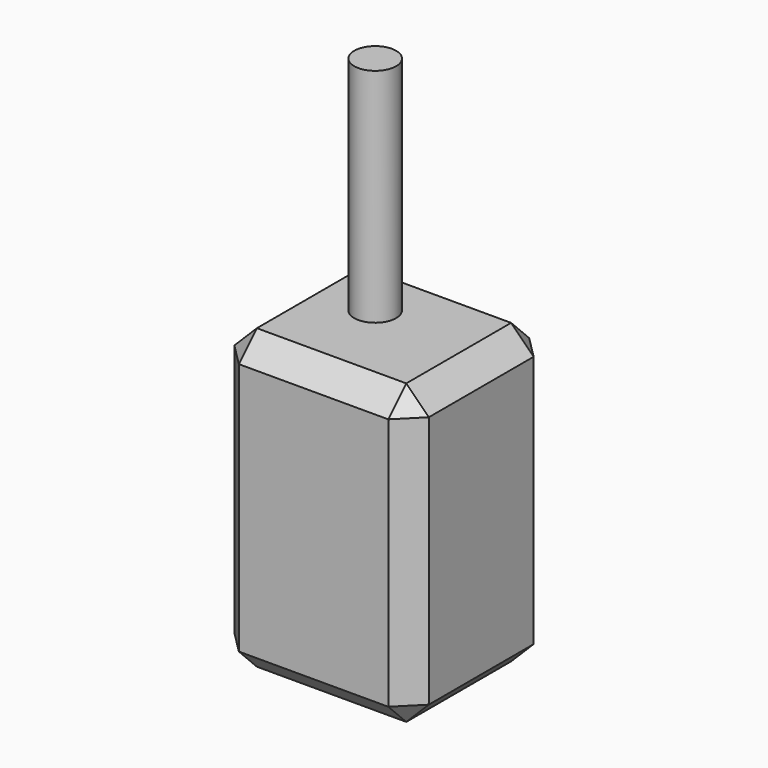
from build123d import *

# Parameters (mm, degrees)
F0_W     = 43.873566
F0_H     = 39.735638
F1_DEPTH = 67.251692
F2_SIZE  = 5.08
F3_R     = 4.729386
F4_DEPTH = 50.0404


with BuildPart() as f1:
    # F0 (on Top) → F1 (new body)
    with BuildSketch(Plane.XY):
        with Locations((4.820467, -19.867819)):
            Rectangle(F0_W, F0_H)
    extrude(amount=F1_DEPTH)

    # F2
    f2_edges = [f1.edges().sort_by_distance(p)[0] for p in [
        (26.75725, -39.735638, 33.625846),
        (26.75725, -19.867819, 67.251692),
        (4.820467, -39.735638, 67.251692),
        (-17.116316, -19.867819, 67.251692),
        (-17.116316, -39.735638, 33.625846),
        (-17.116316, -19.867819, 0),
        (26.75725, -19.867819, 0),
        (4.820467, 0, 0),
        (26.75725, 0, 33.625846),
        (-17.116316, 0, 33.625846),
        (4.820467, 0, 67.251692),
        (4.820467, -39.735638, 0),
    ]]
    chamfer(f2_edges, length=F2_SIZE)

    # F3 (on face) → F4 (join)
    with BuildSketch(Plane.XY.offset(67.251692)):
        with Locations((0, -16.326718)):
            Circle(F3_R)
    extrude(amount=F4_DEPTH)


solid = f1.part
